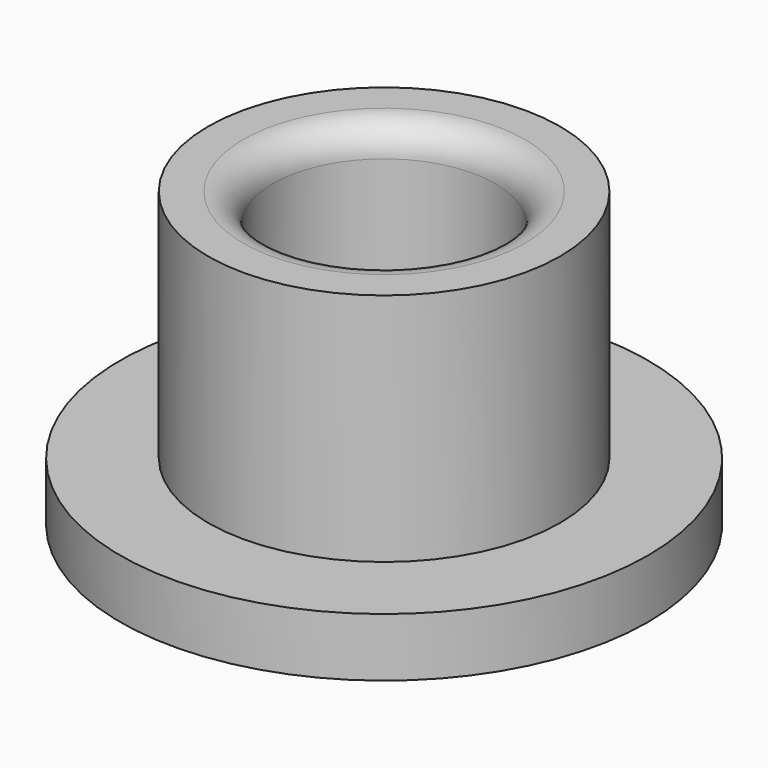
from build123d import *

# Parameters (mm, degrees)
F0_R     = 9
F0_R_2   = 6
F1_DEPTH = 2
F0_R_3   = 3.8
F2_DEPTH = 10
F0_R_4   = 2.2
F3_DEPTH = 5
F4_R     = 1
F5_R     = 1


with BuildPart() as f1:
    # F0 (on Top) → F1 (new body)
    with BuildSketch(Plane.XY):
        Circle(F0_R)
        Circle(F0_R_2, mode=Mode.SUBTRACT)
    extrude(amount=F1_DEPTH)

    # F0 (on Top) → F2 (join)
    with BuildSketch(Plane.XY):
        Circle(F0_R_2)
        Circle(F0_R_3, mode=Mode.SUBTRACT)
    extrude(amount=F2_DEPTH)

    # F0 (on Top) → F3 (join)
    with BuildSketch(Plane.XY):
        Circle(F0_R_3)
        Circle(F0_R_4, mode=Mode.SUBTRACT)
    extrude(amount=F3_DEPTH)

    # F4
    f4_edges = [f1.edges().sort_by_distance(p)[0] for p in [
        (-3.8, 0, 10),
    ]]
    fillet(f4_edges, radius=F4_R)

    # F5
    f5_edges = [f1.edges().sort_by_distance(p)[0] for p in [
        (-2.2, 0, 5),
    ]]
    fillet(f5_edges, radius=F5_R)


solid = f1.part
